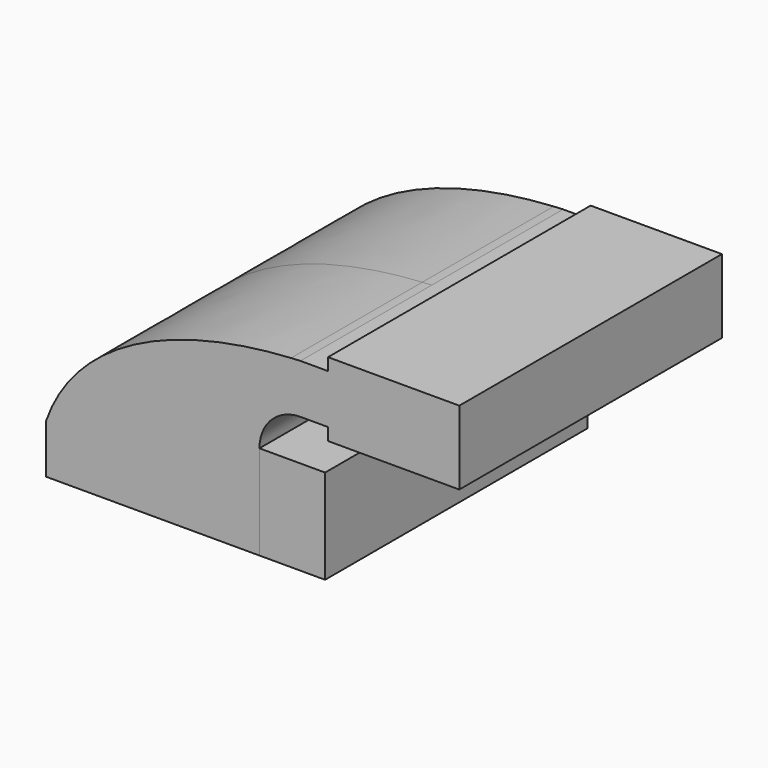
from build123d import *

# Parameters (mm, degrees)
F1_DEPTH  = 63.5
F1_FACE_W = 127
F1_FACE_H = 36.5252
F2_DEPTH  = 25.4


with BuildPart() as f1:
    # F0 (on Front) → F1 (new body, symmetric)
    with BuildSketch(Plane.XZ):
        with BuildLine():
            add(Edge.make_bspline(
                [(-41.275, 9.525), (-30.244056, 41.035932), (5.967718, 58.848898), (53.500687, 61.734018)],
                knots=[0, 0, 0, 0, 108.73835, 108.73835, 108.73835, 108.73835], degree=3))
            Line((-41.275, 9.525), (22.225, 9.525))
            Line((22.225, 9.525), (22.225, 27.0002))
            ThreePointArc((22.225, 27.0002), (31.196119, 50.370088), (53.500687, 61.734018))
        make_face()
        with BuildLine():
            Line((22.225, 9.525), (41.275, 9.525))
            Line((41.275, 9.525), (41.275, 27.0002))
            ThreePointArc((41.275, 27.0002), (45.92468, 38.22552), (57.15, 42.8752))
            Line((57.15, 42.8752), (67.804585, 42.8752))
            Line((67.804585, 42.8752), (67.804585, 61.9252))
            Line((67.804585, 61.9252), (57.15, 61.9252))
            add(Edge.make_bspline(
                [(53.500687, 61.734018), (54.709874, 61.807413), (55.926388, 61.871147), (57.15, 61.9252)],
                knots=[108.73835, 108.73835, 108.73835, 108.73835, 111.504536, 111.504536, 111.504536, 111.504536], degree=3))
            ThreePointArc((53.500687, 61.734018), (31.196119, 50.370088), (22.225, 27.0002))
            Line((22.225, 27.0002), (22.225, 9.525))
        make_face()
        Polygon((67.804585, 66.675), (67.804585, 61.9252), (67.804585, 42.8752), (67.804585, 38.1), (118.604585, 38.1), (118.604585, 66.675), align=None)
        Polygon((-41.275, 9.525), (-41.275, -9.525), (41.275, -9.525), (41.275, 9.525), (22.225, 9.525), align=None)
    extrude(amount=F1_DEPTH, both=True)


with BuildPart() as f2:
    # F1_face (on face) → F2 (new body)
    with BuildSketch(Plane(origin=(41.275, 0, 8.7376), x_dir=(0, 1, 0), z_dir=(1, 0, 0))):
        Rectangle(F1_FACE_W, F1_FACE_H)
    extrude(amount=F2_DEPTH)


solid = Compound([f1.part, f2.part])
